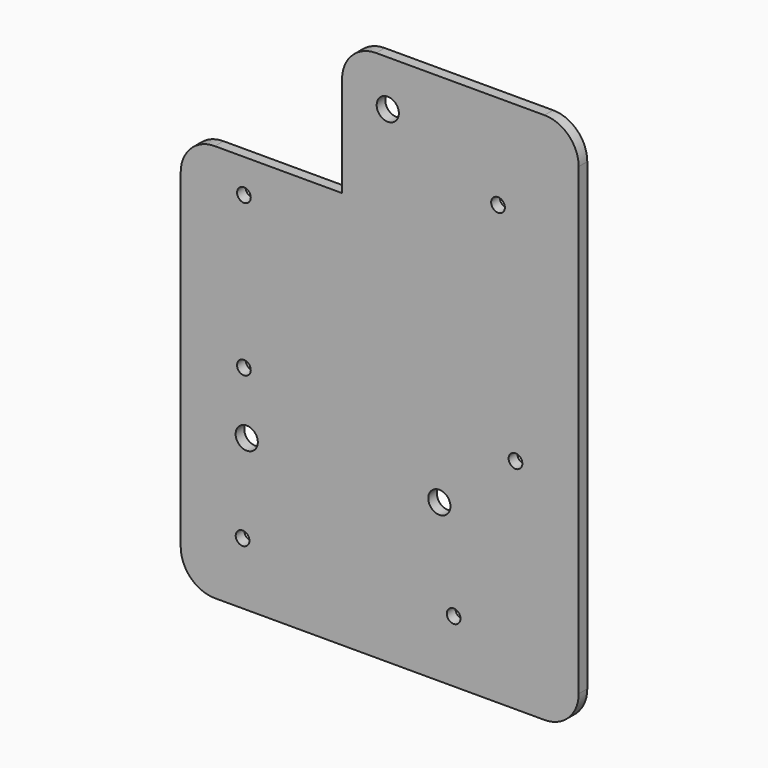
from build123d import *

# Parameters (mm, degrees)
F5_DEPTH = 4
F0_R     = 4.124509
F6_DEPTH = 32.004
F4_R     = 2.55
F7_DEPTH = 18.542
F2_R     = 2.55
F8_DEPTH = 16.764
F3_R     = 2.55
F9_DEPTH = 10.668


with BuildPart() as f5:
    # F1 (on Front) → F5 (new body)
    with BuildSketch(Plane.XZ):
        with BuildLine():
            ThreePointArc((-4.3, 101.097035), (-13.280256, 97.377291), (-17, 88.397035))
            Line((-17, 88.397035), (-17, 51.097035))
            Line((-17, 51.097035), (-64.3, 51.097035))
            ThreePointArc((-64.3, 51.097035), (-73.280256, 47.377291), (-77, 38.397035))
            Line((-77, 38.397035), (-77, -84.202965))
            ThreePointArc((-77, -84.202965), (-73.280256, -93.183221), (-64.3, -96.902965))
            Line((-64.3, -96.902965), (58.3, -96.902965))
            ThreePointArc((58.3, -96.902965), (67.280256, -93.183221), (71, -84.202965))
            Line((71, -84.202965), (71, 88.397035))
            ThreePointArc((71, 88.397035), (67.280256, 97.377291), (58.3, 101.097035))
            Line((58.3, 101.097035), (-4.3, 101.097035))
        make_face()
    extrude(amount=F5_DEPTH)

    # F0 (on Front) → F6 (cut)
    with BuildSketch(Plane.XZ):
        with Locations((-52.453019, -40.648032)):
            Circle(F0_R)
        with Locations((19.184319, -38.372811)):
            Circle(F0_R)
        with Locations((0, 84.097035)):
            Circle(F0_R)
    extrude(amount=F6_DEPTH, mode=Mode.SUBTRACT)

    # F4 (on Front) → F7 (cut)
    with BuildSketch(Plane.XZ):
        with Locations((-54, -73.902965)):
            Circle(F4_R)
        with Locations((24.5, -73.902965)):
            Circle(F4_R)
    extrude(amount=F7_DEPTH, mode=Mode.SUBTRACT)

    # F2 (on Front) → F8 (cut)
    with BuildSketch(Plane.XZ):
        with Locations((-53.5, 38.597035)):
            Circle(F2_R)
        with Locations((-53.5, -17.902965)):
            Circle(F2_R)
    extrude(amount=F8_DEPTH, mode=Mode.SUBTRACT)

    # F3 (on Front) → F9 (cut)
    with BuildSketch(Plane.XZ):
        with Locations((41, 66.097035)):
            Circle(F3_R)
        with Locations((47.5, -15.652965)):
            Circle(F3_R)
    extrude(amount=F9_DEPTH, mode=Mode.SUBTRACT)


solid = f5.part
